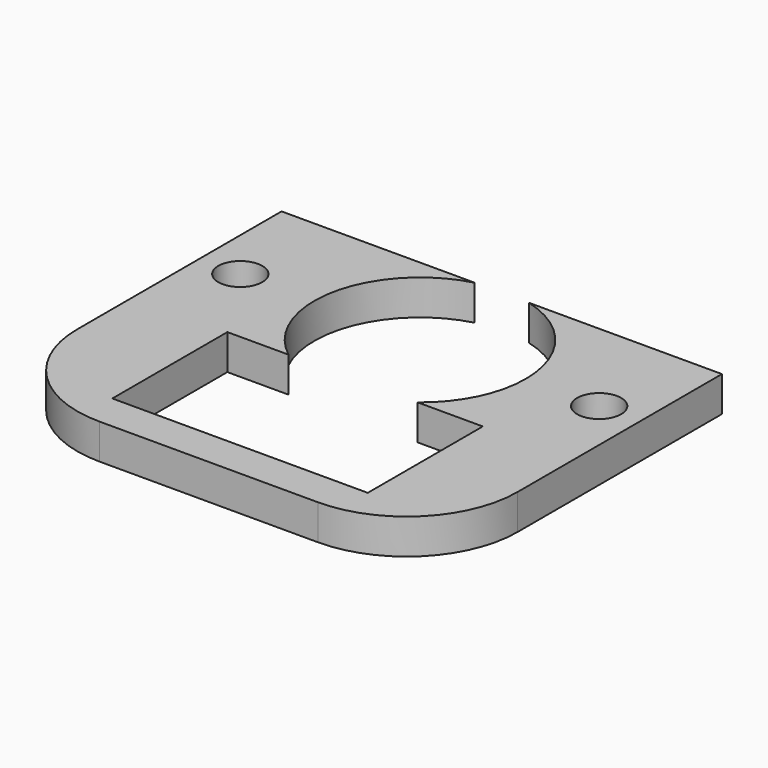
from build123d import *

# Parameters (mm, degrees)
F0_R     = 1.25
F1_DEPTH = 2
F2_R     = 6.3


with BuildPart() as f1:
    # F0 (on Top) → F1 (new body)
    with BuildSketch(Plane.XY):
        with BuildLine():
            ThreePointArc((2.748893, -6.209247), (5.967523, -8.349833), (7.212664, -12.009247))
            ThreePointArc((7.212664, -12.009247), (6.597565, -14.655535), (4.878383, -16.759247))
            Line((4.878383, -16.759247), (5.962664, -16.759247))
            Line((5.962664, -16.759247), (8.576951, -16.759247))
            Line((8.576951, -16.759247), (8.576951, -24.922157))
            Line((8.576951, -24.922157), (-5.924457, -24.922157))
            Line((-5.924457, -24.922157), (-5.924457, -16.759247))
            Line((-5.924457, -16.759247), (-3.537336, -16.759247))
            Line((-3.537336, -16.759247), (-2.453056, -16.759247))
            ThreePointArc((-2.453056, -16.759247), (-4.668721, -10.822105), (-0.323565, -6.209247))
            Line((-0.323565, -6.209247), (-11.287336, -6.209247))
            Line((-11.287336, -6.209247), (-11.287336, -21.309247))
            Line((-11.287336, -21.309247), (-11.287336, -27.009247))
            Line((-11.287336, -27.009247), (13.712664, -27.009247))
            Line((13.712664, -27.009247), (13.712664, -22.122699))
            Line((13.712664, -22.122699), (13.712664, -6.209247))
            Line((13.712664, -6.209247), (2.748893, -6.209247))
        make_face()
        with Locations((-8.958168, -12.048873)):
            Circle(F0_R, mode=Mode.SUBTRACT)
        with Locations((11.383571, -12.009247)):
            Circle(F0_R, mode=Mode.SUBTRACT)
    extrude(amount=F1_DEPTH)

    # F2
    f2_edges = [f1.edges().sort_by_distance(p)[0] for p in [
        (-11.287336, -27.009247, 1),
        (13.712664, -27.009247, 1),
    ]]
    fillet(f2_edges, radius=F2_R)


solid = f1.part
